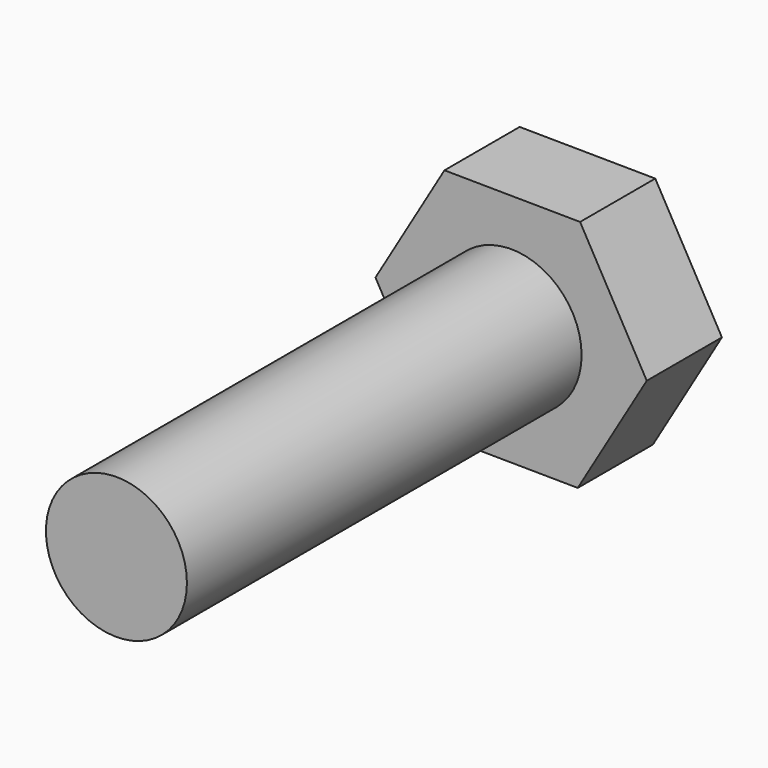
from build123d import *

# Parameters (mm, degrees)
F0_R     = 5
F1_DEPTH = 25
F2_R     = 5
F2_R_2   = 3
F3_DEPTH = 21
F5_DEPTH = 4


with BuildPart() as f1:
    # F0 (on Front) → F1 (new body)
    with BuildSketch(Plane.XZ):
        Circle(F0_R)
    extrude(amount=-F1_DEPTH)

    # F2 (on face) → F3 (cut)
    with BuildSketch(Plane.XZ):
        Circle(F2_R)
        Circle(F2_R_2, mode=Mode.SUBTRACT)
    extrude(amount=-F3_DEPTH, mode=Mode.SUBTRACT)

    # F4 (on face) → F5 (join)
    with BuildSketch(Plane(origin=(0, 25, 0), x_dir=(-1, 0, 0), z_dir=(0, 1, 0))):
        Polygon((2.936192, -4.971128), (5.773219, 0.057253), (2.837027, 5.028381), (-2.936192, 4.971128), (-5.773219, -0.057253), (-2.837027, -5.028381), align=None)
    extrude(amount=-F5_DEPTH)


solid = f1.part
